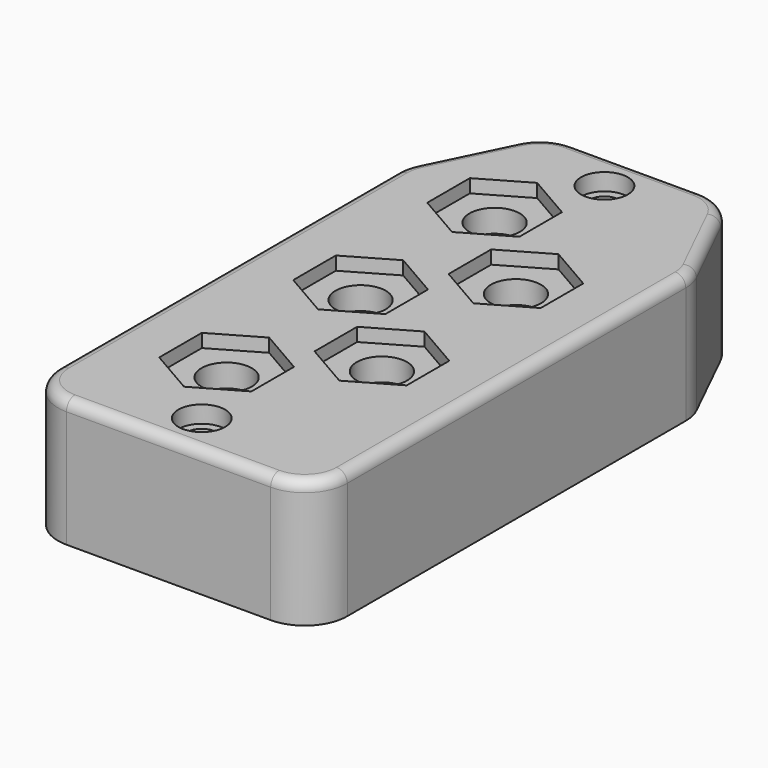
from build123d import *

# Parameters (mm, degrees)
F0_R      = 1.778
F1_DEPTH  = 15.24
F3_DEPTH  = 10.922
F4_R      = 5.08
F5_R      = 1.27
F6_R      = 2.794
F7_DEPTH  = 2.032
F9_DEPTH  = 1.6
F10_R     = 3
F11_DEPTH = 25
F12_R     = 3
F13_DEPTH = 25
F14_R     = 3
F15_DEPTH = 25
F16_R     = 3
F17_DEPTH = 25
F18_R     = 3
F19_DEPTH = 25


with BuildPart() as f1:
    # F0 (on Top) → F1 (new body)
    with BuildSketch(Plane.XY):
        Polygon((0, 56.7757548102), (0, 0), (34.544, 0), (34.544, 56.7757548102), (28.067, 70), (6.477, 70), align=None)
        with Locations((17.272, 4.953)):
            Circle(F0_R, mode=Mode.SUBTRACT)
        with Locations((17.272, 65.047)):
            Circle(F0_R, mode=Mode.SUBTRACT)
    extrude(amount=F1_DEPTH)

    # F2 (on face) → F3 (cut)
    with BuildSketch(Plane(origin=(0, 0, 0), x_dir=(1, 0, 0), z_dir=(0, 0, -1))):
        with BuildLine():
            Line((26.6411766499, -67.714), (32.258, -56.2459979667))
            Line((32.258, -56.2459979667), (32.258, -2.286))
            Line((32.258, -2.286), (22.987, -2.286))
            ThreePointArc((22.987, -2.286), (21.1011462146, -3.0671462146), (20.32, -4.953))
            ThreePointArc((20.32, -4.953), (17.272, -8.001), (14.224, -4.953))
            ThreePointArc((14.224, -4.953), (13.4428537854, -3.0671462146), (11.557, -2.286))
            Line((11.557, -2.286), (2.286, -2.286))
            Line((2.286, -2.286), (2.286, -56.2459979667))
            Line((2.286, -56.2459979667), (7.9028233501, -67.714))
            Line((7.9028233501, -67.714), (11.557, -67.714))
            ThreePointArc((11.557, -67.714), (13.4428537854, -66.9328537854), (14.224, -65.047))
            ThreePointArc((14.224, -65.047), (17.272, -61.999), (20.32, -65.047))
            ThreePointArc((20.32, -65.047), (21.1011462146, -66.9328537854), (22.987, -67.714))
            Line((22.987, -67.714), (26.6411766499, -67.714))
        make_face()
    extrude(amount=-F3_DEPTH, mode=Mode.SUBTRACT)

    # F4
    f4_edges = [f1.edges().sort_by_distance(p)[0] for p in [
        (6.477, 70, 7.62),
        (28.067, 70, 7.62),
        (34.544, 56.775755, 7.62),
        (34.544, 0, 7.62),
        (0, 0, 7.62),
        (0, 56.775755, 7.62),
    ]]
    fillet(f4_edges, radius=F4_R)

    # F5
    f5_edges = [f1.edges().sort_by_distance(p)[0] for p in [
        (1.487898, 1.487898, 15.24),
        (33.056102, 1.487898, 15.24),
        (34.412853, 56.745363, 15.24),
        (0.131147, 56.745363, 15.24),
        (27.586929, 69.23031, 15.24),
        (6.957071, 69.23031, 15.24),
        (17.272, 0, 15.24),
        (0, 30.339259, 15.24),
        (2.800565, 62.493735, 15.24),
        (17.272, 70, 15.24),
        (31.743435, 62.493735, 15.24),
        (34.544, 30.339259, 15.24),
    ]]
    fillet(f5_edges, radius=F5_R)

    # F6 (on face) → F7 (cut)
    with BuildSketch(Plane.XY.offset(15.24)):
        with Locations((17.272, 65.047)):
            Circle(F6_R)
        with Locations((17.272, 4.953)):
            Circle(F6_R)
    extrude(amount=-F7_DEPTH, mode=Mode.SUBTRACT)

    # F8 (on face) → F9 (cut)
    with BuildSketch(Plane.XY.offset(15.24)):
        Polygon((17.5, 18.4254264805), (12, 21.6008529611), (6.5, 18.4254264805), (6.5, 12.0745735195), (12, 8.8991470389), (17.5, 12.0745735195), align=None)
        Polygon((17.5, 38.4254264805), (12, 41.6008529611), (6.5, 38.4254264805), (6.5, 32.0745735195), (12, 28.8991470389), (17.5, 32.0745735195), align=None)
        Polygon((28.044, 42.0747205584), (28.044, 48.4255735195), (22.544, 51.601), (17.044, 48.4255735195), (17.044, 42.0747205584), (22.544, 38.8992940778), align=None)
        Polygon((6.5, 58.4254264805), (6.5, 52.0745735195), (12, 48.8991470389), (17.5, 52.0745735195), (17.5, 58.4254264805), (12, 61.6008529611), align=None)
        Polygon((28.044, 22.0747205584), (28.044, 28.4255735195), (22.544, 31.601), (17.044, 28.4255735195), (17.044, 22.0747205584), (22.544, 18.8992940778), align=None)
    extrude(amount=-F9_DEPTH, mode=Mode.SUBTRACT)

    # F10 (on face) → F11 (cut)
    with BuildSketch(Plane.XY.offset(13.64)):
        with Locations((12, 35.25)):
            Circle(F10_R)
    extrude(amount=-F11_DEPTH, mode=Mode.SUBTRACT)

    # F12 (on face) → F13 (cut)
    with BuildSketch(Plane.XY.offset(13.64)):
        with Locations((22.544, 45.2501470389)):
            Circle(F12_R)
    extrude(amount=-F13_DEPTH, mode=Mode.SUBTRACT)

    # F14 (on face) → F15 (cut)
    with BuildSketch(Plane.XY.offset(13.64)):
        with Locations((22.544, 25.2501470389)):
            Circle(F14_R)
    extrude(amount=-F15_DEPTH, mode=Mode.SUBTRACT)

    # F16 (on face) → F17 (cut)
    with BuildSketch(Plane.XY.offset(13.64)):
        with Locations((12, 15.25)):
            Circle(F16_R)
    extrude(amount=-F17_DEPTH, mode=Mode.SUBTRACT)

    # F18 (on face) → F19 (cut)
    with BuildSketch(Plane.XY.offset(13.64)):
        with Locations((12, 55.25)):
            Circle(F18_R)
    extrude(amount=-F19_DEPTH, mode=Mode.SUBTRACT)


solid = f1.part
